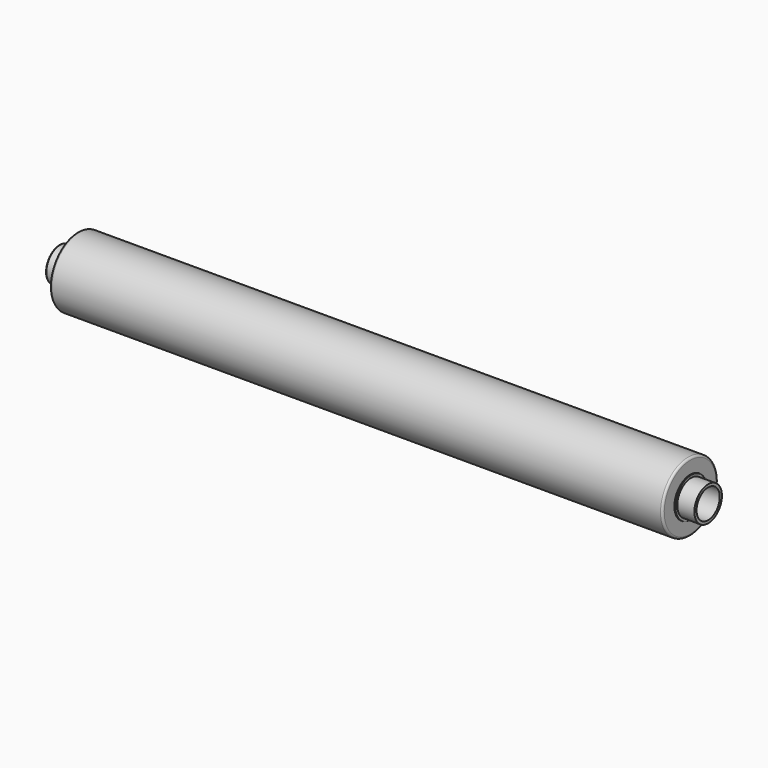
from build123d import *

# Parameters (mm, degrees)
F2_SIZE2 = 0.2309401077
F2_SIZE  = 0.4
F4_D     = 8.5


with BuildPart() as f1:
    # F0 (on Front) → F1 (revolve)
    with BuildSketch(Plane.XZ):
        with BuildLine():
            Line((0, 0), (0, -12.5))
            Line((0, -12.5), (12.4, -12.5))
            Line((12.4, -12.5), (12.4, -14.3))
            Line((12.4, -14.3), (12.8, -14.3))
            ThreePointArc((12.8, -14.3), (12.9414213562, -14.3585786438), (13, -14.5))
            Line((13, -14.5), (13, -23.582))
            ThreePointArc((13, -23.582), (13.4393398282, -24.6426601718), (14.5, -25.082))
            Line((14.5, -25.082), (456, -25.082))
            ThreePointArc((456, -25.082), (457.0606601718, -24.6426601718), (457.5, -23.582))
            Line((457.5, -23.582), (457.5, -14.5))
            ThreePointArc((457.5, -14.5), (457.5585786438, -14.3585786438), (457.7, -14.3))
            Line((457.7, -14.3), (458.1, -14.3))
            Line((458.1, -14.3), (458.1, -12.5))
            Line((458.1, -12.5), (470.5, -12.5))
            Line((470.5, -12.5), (470.5, -10.5))
            Line((470.5, -10.5), (454.5, -10.5))
            Line((454.5, -10.5), (454.5, -22.082))
            Line((454.5, -22.082), (16, -22.082))
            Line((16, -22.082), (16, 0))
            Line((16, 0), (0, 0))
        make_face()
    revolve(axis=Axis((8, 0, 0), (-1, 0, 0)))

    # F2
    f2_edges = [f1.edges().sort_by_distance(p)[0] for p in [
        (0, 0, 12.5),
    ]]
    f2_side = f1.faces().sort_by_distance((6.2, 0, 12.5))[0]
    chamfer(f2_edges, length=F2_SIZE, length2=F2_SIZE2, reference=f2_side)

    # F4 (through all)
    with Locations(Plane(origin=(0, 0, 0), x_dir=(0, -1, 0), z_dir=(-1, 0, 0))):
        with Locations((0, 0)):
            Hole(F4_D / 2)


solid = f1.part
